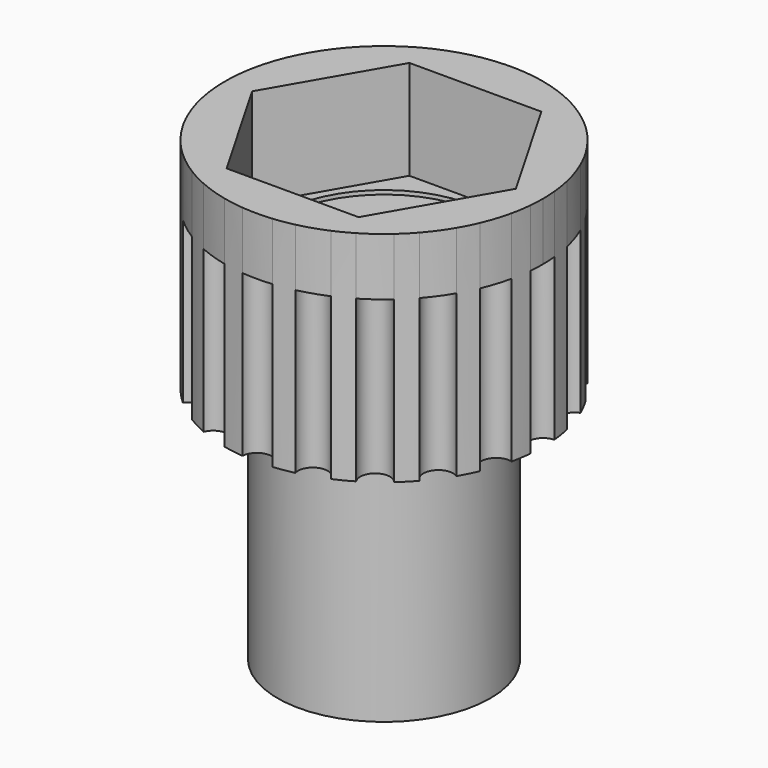
from build123d import *

# Parameters (mm, degrees)
F0_R     = 5.35
F0_R_2   = 3.5
F1_DEPTH = 18
F2_START = 12
F2_DEPTH = 11
F3_START = 17.8
F3_DEPTH = 11.2
F4_START = 12
F4_DEPTH = 6
F5_START = 20.1
F5_DEPTH = 2.9


with BuildPart() as f1:
    # F0 (on Top) → F1 (new body)
    with BuildSketch(Plane.XY):
        Circle(F0_R)
        Circle(F0_R_2, mode=Mode.SUBTRACT)
    extrude(amount=F1_DEPTH)

    # F0 (on Top) → F3 (cut)
    with BuildSketch(Plane.XY.offset(F3_START)):
        Polygon((3.3197640478, 5.75), (-3.3197640478, 5.75), (-6.6395280957, 0), (-3.3197640478, -5.75), (3.3197640478, -5.75), (6.6395280957, 0), align=None)
        Circle(F0_R, mode=Mode.SUBTRACT)
        Circle(F0_R)
        Circle(F0_R_2, mode=Mode.SUBTRACT)
    extrude(amount=F3_DEPTH, mode=Mode.SUBTRACT)


with BuildPart() as f2:
    # F0 (on Top) → F2 (new body)
    with BuildSketch(Plane.XY.offset(F2_START)):
        with BuildLine():
            ThreePointArc((7.9662290313, -0.734299), (7.249987356, 0.0135402124), (7.9634306874, 0.7640495314))
            ThreePointArc((7.9634306874, 0.7640495314), (7.8993920147, 1.2647552327), (7.8039030048, 1.760425486))
            ThreePointArc((7.8039030048, 1.760425486), (6.8918047218, 2.2506727166), (7.3387584474, 3.1847487264))
            ThreePointArc((7.3387584474, 3.1847487264), (7.1232979745, 3.6412396195), (6.8794770755, 4.0832334206))
            ThreePointArc((6.8794770755, 4.0832334206), (5.8605942826, 4.2680129632), (5.9974105778, 5.2944373035))
            ThreePointArc((5.9974105778, 5.2944373035), (5.6515693665, 5.6621341998), (5.2832272131, 6.0072880916))
            ThreePointArc((5.2832272131, 6.0072880916), (4.2570601831, 5.868555069), (4.0703780814, 6.8870909878))
            ThreePointArc((4.0703780814, 6.8870909878), (3.6279296875, 7.130085987), (3.1710371931, 7.3446935348))
            ThreePointArc((3.1710371931, 7.3446935348), (2.23779755, 6.8959960937), (1.7458477256, 7.8071771928))
            ThreePointArc((1.7458477256, 7.8071771928), (1.25, 7.9017403146), (0.7491755723, 7.96484375))
            ThreePointArc((0.7491755723, 7.96484375), (0, 7.25), (-0.7491755723, 7.96484375))
            ThreePointArc((-0.7491755723, 7.96484375), (-1.2742593317, 7.897864468), (-1.7937642409, 7.7963074496))
            ThreePointArc((-1.7937642409, 7.7963074496), (-1.7729599285, 7.6961362905), (-1.7659818748, 7.5940657889))
            ThreePointArc((-1.7659818748, 7.5940657889), (-2.3791944191, 6.8566451545), (-3.2160863867, 7.3250794094))
            ThreePointArc((-3.2160863867, 7.3250794094), (-3.6150095618, 7.1366452811), (-4.002938187, 6.9265060363))
            ThreePointArc((-4.0029381869, 6.9265060363), (-3.9143436091, 6.7324017375), (-3.8839932904, 6.5212043507))
            ThreePointArc((-3.8839932904, 6.5212043507), (-4.3892944808, 5.8122456125), (-5.2243199373, 6.0585873925))
            ThreePointArc((-5.2243199373, 6.0585873925), (-5.6799401137, 5.6336737841), (-6.1011131111, 5.1745935884))
            ThreePointArc((-6.1011131111, 5.1745935884), (-5.8858968627, 4.9115393004), (-5.808886468, 4.5805030619))
            ThreePointArc((-5.808886468, 4.5805030619), (-6.1966677291, 3.9237705553), (-6.9590133618, 3.9461542077))
            ThreePointArc((-6.9590133618, 3.9461542077), (-7.1983640201, 3.4904950127), (-7.4079186208, 3.0203876751))
            ThreePointArc((-7.4079186208, 3.0203876751), (-7.0457513895, 2.7462701461), (-6.908214374, 2.3133855281))
            ThreePointArc((-6.908214374, 2.3133855281), (-7.1970963964, 1.7218872519), (-7.8412016025, 1.586050891))
            ThreePointArc((-7.8412016025, 1.586050891), (-7.9140923356, 1.1692486921), (-7.96484375, 0.7491755723))
            ThreePointArc((-7.96484375, 0.7491755723), (-7.4573826452, 0.5177512977), (-7.25, 0))
            ThreePointArc((-7.25, 0), (-7.4573826452, -0.5177512977), (-7.96484375, -0.7491755723))
            ThreePointArc((-7.96484375, -0.7491755723), (-7.9046621053, -1.2313882417), (-7.8153133827, -1.7090572638))
            ThreePointArc((-7.8153133827, -1.7090572638), (-7.1644640018, -1.8383242811), (-6.8709207496, -2.4334269927))
            ThreePointArc((-6.8709207496, -2.4334269927), (-7.0050757868, -2.8614865468), (-7.3595473677, -3.1364091797))
            ThreePointArc((-7.3595473677, -3.1364091797), (-7.1462960279, -3.5958939197), (-6.9043922439, -4.0409612399))
            ThreePointArc((-6.9043922439, -4.0409612399), (-6.1379077873, -4.0105841797), (-5.7456269953, -4.6697783607))
            ThreePointArc((-5.7456269953, -4.6697783607), (-5.820389337, -4.9962046233), (-6.029771275, -5.2575525077))
            ThreePointArc((-6.029771275, -5.2575525077), (-5.7301911057, -5.5825540654), (-5.4131182485, -5.8905136302))
            ThreePointArc((-5.4131182485, -5.8905136302), (-4.5818329457, -5.6665451291), (-4.0877015162, -6.3715495792))
            ThreePointArc((-4.0877015162, -6.3715495792), (-4.1214781939, -6.5940898059), (-4.219765923, -6.7965855807))
            ThreePointArc((-4.219765923, -6.7965855807), (-3.728860705, -7.0778243722), (-3.2193063364, -7.3236648416))
            ThreePointArc((-3.2193063364, -7.3236648416), (-2.382370599, -6.8555684268), (-1.7693201443, -7.592958976))
            ThreePointArc((-1.7693201443, -7.592958976), (-1.7763206521, -7.6951927992), (-1.7971914899, -7.7955181193))
            ThreePointArc((-1.7971914899, -7.7955181193), (-1.2759953355, -7.8975841815), (-0.7491755723, -7.96484375))
            ThreePointArc((-0.7491755723, -7.96484375), (0, -7.25), (0.7491755723, -7.96484375))
            ThreePointArc((0.7491755723, -7.96484375), (1.2647552327, -7.8993920147), (1.7749971061, -7.8006015969))
            ThreePointArc((1.7749971061, -7.8006015969), (2.2635400328, -6.8875893112), (3.1984491512, -7.3327977626))
            ThreePointArc((3.1984491512, -7.3327977626), (3.654536851, -7.1164851159), (4.0960745175, -6.8718391677))
            ThreePointArc((4.0960745175, -6.8718391677), (4.2789508566, -5.8526130546), (5.3056289271, -5.9875121452))
            ThreePointArc((5.3056289271, -5.9875121452), (5.6726792836, -5.6409848205), (6.0171446519, -5.2719986948))
            ThreePointArc((6.0171446519, -5.2719986948), (5.8764953858, -4.2460925544), (6.8946808779, -4.0575085448))
            ThreePointArc((6.8946808779, -4.0575085448), (7.1368491299, -3.6146071013), (7.3506030039, -3.1573145993))
            ThreePointArc((7.3506030039, -3.1573145993), (6.9001634126, -2.2249145781), (7.8104241494, -1.7312638756))
            ThreePointArc((7.8104241494, -1.7312638756), (7.9040610534, -1.2352404073), (7.9662290313, -0.734299))
        make_face()
        Polygon((-6.6395280957, 0), (-3.3197640478, 5.75), (3.3197640478, 5.75), (6.6395280957, 0), (3.3197640478, -5.75), (-3.3197640478, -5.75), align=None, mode=Mode.SUBTRACT)
    extrude(amount=F2_DEPTH)

    # F0 (on Top) → F5 (join)
    with BuildSketch(Plane.XY.offset(F5_START)):
        with BuildLine():
            ThreePointArc((7.9662290313, -0.734299), (7.249987356, 0.0135402124), (7.9634306874, 0.7640495314))
            ThreePointArc((7.9634306874, 0.7640495314), (7.8993920147, 1.2647552327), (7.8039030048, 1.760425486))
            ThreePointArc((7.8039030048, 1.760425486), (6.8918047218, 2.2506727166), (7.3387584474, 3.1847487264))
            ThreePointArc((7.3387584474, 3.1847487264), (7.1232979745, 3.6412396195), (6.8794770755, 4.0832334206))
            ThreePointArc((6.8794770755, 4.0832334206), (5.8605942826, 4.2680129632), (5.9974105778, 5.2944373035))
            ThreePointArc((5.9974105778, 5.2944373035), (5.6515693665, 5.6621341998), (5.2832272131, 6.0072880916))
            ThreePointArc((5.2832272131, 6.0072880916), (4.2570601831, 5.868555069), (4.0703780814, 6.8870909878))
            ThreePointArc((4.0703780814, 6.8870909878), (3.6279296875, 7.130085987), (3.1710371931, 7.3446935348))
            ThreePointArc((3.1710371931, 7.3446935348), (2.23779755, 6.8959960937), (1.7458477256, 7.8071771928))
            ThreePointArc((1.7458477256, 7.8071771928), (1.25, 7.9017403146), (0.7491755723, 7.96484375))
            ThreePointArc((0.7491755723, 7.96484375), (0, 7.25), (-0.7491755723, 7.96484375))
            ThreePointArc((-0.7491755723, 7.96484375), (-1.2742593317, 7.897864468), (-1.7937642409, 7.7963074496))
            ThreePointArc((-1.7937642409, 7.7963074496), (-1.7729599285, 7.6961362905), (-1.7659818748, 7.5940657889))
            ThreePointArc((-1.7659818748, 7.5940657889), (-2.3791944191, 6.8566451545), (-3.2160863867, 7.3250794094))
            ThreePointArc((-3.2160863867, 7.3250794094), (-3.6150095618, 7.1366452811), (-4.002938187, 6.9265060363))
            ThreePointArc((-4.0029381869, 6.9265060363), (-3.9143436091, 6.7324017375), (-3.8839932904, 6.5212043507))
            ThreePointArc((-3.8839932904, 6.5212043507), (-4.3892944808, 5.8122456125), (-5.2243199373, 6.0585873925))
            ThreePointArc((-5.2243199373, 6.0585873925), (-5.6799401137, 5.6336737841), (-6.1011131111, 5.1745935884))
            ThreePointArc((-6.1011131111, 5.1745935884), (-5.8858968627, 4.9115393004), (-5.808886468, 4.5805030619))
            ThreePointArc((-5.808886468, 4.5805030619), (-6.1966677291, 3.9237705553), (-6.9590133618, 3.9461542077))
            ThreePointArc((-6.9590133618, 3.9461542077), (-7.1983640201, 3.4904950127), (-7.4079186208, 3.0203876751))
            ThreePointArc((-7.4079186208, 3.0203876751), (-7.0457513895, 2.7462701461), (-6.908214374, 2.3133855281))
            ThreePointArc((-6.908214374, 2.3133855281), (-7.1970963964, 1.7218872519), (-7.8412016025, 1.586050891))
            ThreePointArc((-7.8412016025, 1.586050891), (-7.9140923356, 1.1692486921), (-7.96484375, 0.7491755723))
            ThreePointArc((-7.96484375, 0.7491755723), (-7.4573826452, 0.5177512977), (-7.25, 0))
            ThreePointArc((-7.25, 0), (-7.4573826452, -0.5177512977), (-7.96484375, -0.7491755723))
            ThreePointArc((-7.96484375, -0.7491755723), (-7.9046621053, -1.2313882417), (-7.8153133827, -1.7090572638))
            ThreePointArc((-7.8153133827, -1.7090572638), (-7.1644640018, -1.8383242811), (-6.8709207496, -2.4334269927))
            ThreePointArc((-6.8709207496, -2.4334269927), (-7.0050757868, -2.8614865468), (-7.3595473677, -3.1364091797))
            ThreePointArc((-7.3595473677, -3.1364091797), (-7.1462960279, -3.5958939197), (-6.9043922439, -4.0409612399))
            ThreePointArc((-6.9043922439, -4.0409612399), (-6.1379077873, -4.0105841797), (-5.7456269953, -4.6697783607))
            ThreePointArc((-5.7456269953, -4.6697783607), (-5.820389337, -4.9962046233), (-6.029771275, -5.2575525077))
            ThreePointArc((-6.029771275, -5.2575525077), (-5.7301911057, -5.5825540654), (-5.4131182485, -5.8905136302))
            ThreePointArc((-5.4131182485, -5.8905136302), (-4.5818329457, -5.6665451291), (-4.0877015162, -6.3715495792))
            ThreePointArc((-4.0877015162, -6.3715495792), (-4.1214781939, -6.5940898059), (-4.219765923, -6.7965855807))
            ThreePointArc((-4.219765923, -6.7965855807), (-3.728860705, -7.0778243722), (-3.2193063364, -7.3236648416))
            ThreePointArc((-3.2193063364, -7.3236648416), (-2.382370599, -6.8555684268), (-1.7693201443, -7.592958976))
            ThreePointArc((-1.7693201443, -7.592958976), (-1.7763206521, -7.6951927992), (-1.7971914899, -7.7955181193))
            ThreePointArc((-1.7971914899, -7.7955181193), (-1.2759953355, -7.8975841815), (-0.7491755723, -7.96484375))
            ThreePointArc((-0.7491755723, -7.96484375), (0, -7.25), (0.7491755723, -7.96484375))
            ThreePointArc((0.7491755723, -7.96484375), (1.2647552327, -7.8993920147), (1.7749971061, -7.8006015969))
            ThreePointArc((1.7749971061, -7.8006015969), (2.2635400328, -6.8875893112), (3.1984491512, -7.3327977626))
            ThreePointArc((3.1984491512, -7.3327977626), (3.654536851, -7.1164851159), (4.0960745175, -6.8718391677))
            ThreePointArc((4.0960745175, -6.8718391677), (4.2789508566, -5.8526130546), (5.3056289271, -5.9875121452))
            ThreePointArc((5.3056289271, -5.9875121452), (5.6726792836, -5.6409848205), (6.0171446519, -5.2719986948))
            ThreePointArc((6.0171446519, -5.2719986948), (5.8764953858, -4.2460925544), (6.8946808779, -4.0575085448))
            ThreePointArc((6.8946808779, -4.0575085448), (7.1368491299, -3.6146071013), (7.3506030039, -3.1573145993))
            ThreePointArc((7.3506030039, -3.1573145993), (6.9001634126, -2.2249145781), (7.8104241494, -1.7312638756))
            ThreePointArc((7.8104241494, -1.7312638756), (7.9040610534, -1.2352404073), (7.9662290313, -0.734299))
        make_face()
        Polygon((-6.6395280957, 0), (-3.3197640478, 5.75), (3.3197640478, 5.75), (6.6395280957, 0), (3.3197640478, -5.75), (-3.3197640478, -5.75), align=None, mode=Mode.SUBTRACT)
        with BuildLine():
            ThreePointArc((-7.8153133827, -1.7090572638), (-7.6209207496, -2.4334269927), (-7.3595473677, -3.1364091797))
            ThreePointArc((-7.3595473677, -3.1364091797), (-7.0050757868, -2.8614865468), (-6.8709207496, -2.4334269927))
            ThreePointArc((-6.8709207496, -2.4334269927), (-7.1644640018, -1.8383242811), (-7.8153133827, -1.7090572638))
        make_face()
        with BuildLine():
            ThreePointArc((-7.25, 0), (-7.4573826452, 0.5177512977), (-7.96484375, 0.7491755723))
            ThreePointArc((-7.96484375, 0.7491755723), (-8, 0), (-7.96484375, -0.7491755723))
            ThreePointArc((-7.96484375, -0.7491755723), (-7.4573826452, -0.5177512977), (-7.25, 0))
        make_face()
        with BuildLine():
            ThreePointArc((-6.908214374, 2.3133855281), (-7.0457513895, 2.7462701461), (-7.4079186208, 3.0203876751))
            ThreePointArc((-7.4079186208, 3.0203876751), (-7.658214374, 2.3133855281), (-7.8412016025, 1.586050891))
            ThreePointArc((-7.8412016025, 1.586050891), (-7.1970963964, 1.7218872519), (-6.908214374, 2.3133855281))
        make_face()
        with BuildLine():
            ThreePointArc((-5.808886468, 4.5805030619), (-5.8858968627, 4.9115393004), (-6.1011131111, 5.1745935884))
            ThreePointArc((-6.1011131111, 5.1745935884), (-6.558886468, 4.5805030619), (-6.9590133618, 3.9461542077))
            ThreePointArc((-6.9590133618, 3.9461542077), (-6.1966677291, 3.9237705553), (-5.808886468, 4.5805030619))
        make_face()
        with BuildLine():
            ThreePointArc((-3.8839932904, 6.5212043507), (-3.9143436091, 6.7324017375), (-4.0029381869, 6.9265060363))
            ThreePointArc((-4.002938187, 6.9265060363), (-4.6339932904, 6.5212043507), (-5.2243199373, 6.0585873925))
            ThreePointArc((-5.2243199373, 6.0585873925), (-4.3892944808, 5.8122456125), (-3.8839932904, 6.5212043507))
        make_face()
        with BuildLine():
            ThreePointArc((-1.7659818748, 7.5940657889), (-1.7729599285, 7.6961362905), (-1.7937642409, 7.7963074496))
            ThreePointArc((-1.7937642409, 7.7963074496), (-2.5159818748, 7.5940657889), (-3.2160863867, 7.3250794094))
            ThreePointArc((-3.2160863867, 7.3250794094), (-2.3791944191, 6.8566451545), (-1.7659818748, 7.5940657889))
        make_face()
        with BuildLine():
            ThreePointArc((-0.7491755723, 7.96484375), (0, 7.25), (0.7491755723, 7.96484375))
            ThreePointArc((0.7491755723, 7.96484375), (0, 8), (-0.7491755723, 7.96484375))
        make_face()
        with BuildLine():
            ThreePointArc((1.7458477256, 7.8071771928), (2.23779755, 6.8959960937), (3.1710371931, 7.3446935348))
            ThreePointArc((3.1710371931, 7.3446935348), (2.4692938483, 7.609375), (1.7458477256, 7.8071771928))
        make_face()
        with BuildLine():
            ThreePointArc((4.0703780814, 6.8870909878), (4.2570601831, 5.868555069), (5.2832272131, 6.0072880916))
            ThreePointArc((5.2832272131, 6.0072880916), (4.6974457193, 6.4756469727), (4.0703780814, 6.8870909878))
        make_face()
        with BuildLine():
            ThreePointArc((5.9974105778, 5.2944373035), (5.8605942826, 4.2680129632), (6.8794770755, 4.0832334206))
            ThreePointArc((6.8794770755, 4.0832334206), (6.4668626567, 4.7095315456), (5.9974105778, 5.2944373035))
        make_face()
        with BuildLine():
            ThreePointArc((7.3387584474, 3.1847487264), (6.8918047218, 2.2506727166), (7.8039030048, 1.760425486))
            ThreePointArc((7.8039030048, 1.760425486), (7.6047500378, 2.4835009286), (7.3387584474, 3.1847487264))
        make_face()
        with BuildLine():
            ThreePointArc((7.9662290313, -0.734299), (7.9915527981, -0.367537583), (8, 0))
            ThreePointArc((8, 0), (7.990852442, 0.38246209), (7.9634306874, 0.7640495314))
            ThreePointArc((7.9634306874, 0.7640495314), (7.249987356, 0.0135402124), (7.9662290313, -0.734299))
        make_face()
        with BuildLine():
            ThreePointArc((7.3506030039, -3.1573145993), (7.6139734208, -2.4550781552), (7.8104241494, -1.7312638756))
            ThreePointArc((7.8104241494, -1.7312638756), (6.9001634126, -2.2249145781), (7.3506030039, -3.1573145993))
        make_face()
        with BuildLine():
            ThreePointArc((6.0171446519, -5.2719986948), (6.4844087016, -4.6853435083), (6.8946808779, -4.0575085448))
            ThreePointArc((6.8946808779, -4.0575085448), (5.8764953858, -4.2460925544), (6.0171446519, -5.2719986948))
        make_face()
        with BuildLine():
            ThreePointArc((4.0960745175, -6.8718391677), (4.7216009452, -6.4580557844), (5.3056289271, -5.9875121452))
            ThreePointArc((5.3056289271, -5.9875121452), (4.2789508566, -5.8526130546), (4.0960745175, -6.8718391677))
        make_face()
        with BuildLine():
            ThreePointArc((1.7749971061, -7.8006015969), (2.4976993465, -7.6000985503), (3.1984491512, -7.3327977626))
            ThreePointArc((3.1984491512, -7.3327977626), (2.2635400328, -6.8875893112), (1.7749971061, -7.8006015969))
        make_face()
        with BuildLine():
            ThreePointArc((-0.7491755723, -7.96484375), (0, -8), (0.7491755723, -7.96484375))
            ThreePointArc((0.7491755723, -7.96484375), (0, -7.25), (-0.7491755723, -7.96484375))
        make_face()
        with BuildLine():
            ThreePointArc((-3.2193063364, -7.3236648416), (-2.5193201443, -7.592958976), (-1.7971914899, -7.7955181193))
            ThreePointArc((-1.7971914899, -7.7955181193), (-1.7763206521, -7.6951927992), (-1.7693201443, -7.592958976))
            ThreePointArc((-1.7693201443, -7.592958976), (-2.382370599, -6.8555684268), (-3.2193063364, -7.3236648416))
        make_face()
        with BuildLine():
            ThreePointArc((-5.4131182485, -5.8905136302), (-4.8377015162, -6.3715495792), (-4.219765923, -6.7965855807))
            ThreePointArc((-4.219765923, -6.7965855807), (-4.1214781939, -6.5940898059), (-4.0877015162, -6.3715495792))
            ThreePointArc((-4.0877015162, -6.3715495792), (-4.5818329457, -5.6665451291), (-5.4131182485, -5.8905136302))
        make_face()
        with BuildLine():
            ThreePointArc((-6.9043922439, -4.0409612399), (-6.4956269953, -4.6697783607), (-6.029771275, -5.2575525077))
            ThreePointArc((-6.029771275, -5.2575525077), (-5.820389337, -4.9962046233), (-5.7456269953, -4.6697783607))
            ThreePointArc((-5.7456269953, -4.6697783607), (-6.1379077873, -4.0105841797), (-6.9043922439, -4.0409612399))
        make_face()
    extrude(amount=F5_DEPTH)


with BuildPart() as f4:
    # F0 (on Top) → F4 (new body)
    with BuildSketch(Plane.XY.offset(F4_START)):
        Polygon((3.3197640478, 5.75), (-3.3197640478, 5.75), (-6.6395280957, 0), (-3.3197640478, -5.75), (3.3197640478, -5.75), (6.6395280957, 0), align=None)
        Circle(F0_R, mode=Mode.SUBTRACT)
    extrude(amount=F4_DEPTH)


solid = Compound([f1.part, f2.part, f4.part])
